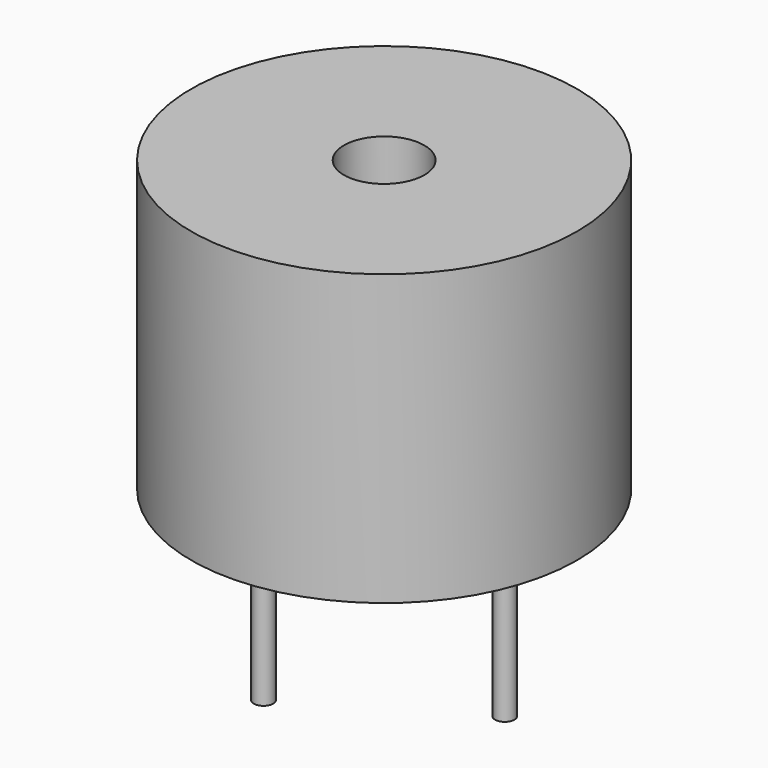
from build123d import *

# Parameters (mm, degrees)
CYLINDER_R        = 6
CYLINDER_DEPTH    = 9
SKETCH_R          = 1.25
POCKET_DEPTH      = 3
CYLINDER002_R     = 0.3
CYLINDER002_DEPTH = 5
CYLINDER001_R     = 0.3
CYLINDER001_DEPTH = 7


with BuildPart() as holepocket:
    # Cylinder → Cylinder (new body)
    with BuildSketch(Plane.XY):
        Circle(CYLINDER_R)
    extrude(amount=CYLINDER_DEPTH)

    # Sketch → Pocket (cut)
    with BuildSketch(Plane.XY.offset(9)):
        Circle(SKETCH_R)
    extrude(amount=-POCKET_DEPTH, mode=Mode.SUBTRACT)


with BuildPart() as cathodecylinder002:
    # Cylinder002 → Cylinder002 (new body)
    with BuildSketch(Plane(origin=(3.75, 0, -5), x_dir=(1, 0, 0), z_dir=(0, 0, 1))):
        Circle(CYLINDER002_R)
    extrude(amount=CYLINDER002_DEPTH)


with BuildPart() as buzzerfusion:
    # Cylinder001 → Cylinder001 (new body)
    with BuildSketch(Plane(origin=(-3.75, 0, -7), x_dir=(1, 0, 0), z_dir=(0, 0, 1))):
        Circle(CYLINDER001_R)
    extrude(amount=CYLINDER001_DEPTH)

    # Fusion: union HolePocket, CathodeCylinder002
    add(holepocket.part)
    add(cathodecylinder002.part)


solid = buzzerfusion.part
